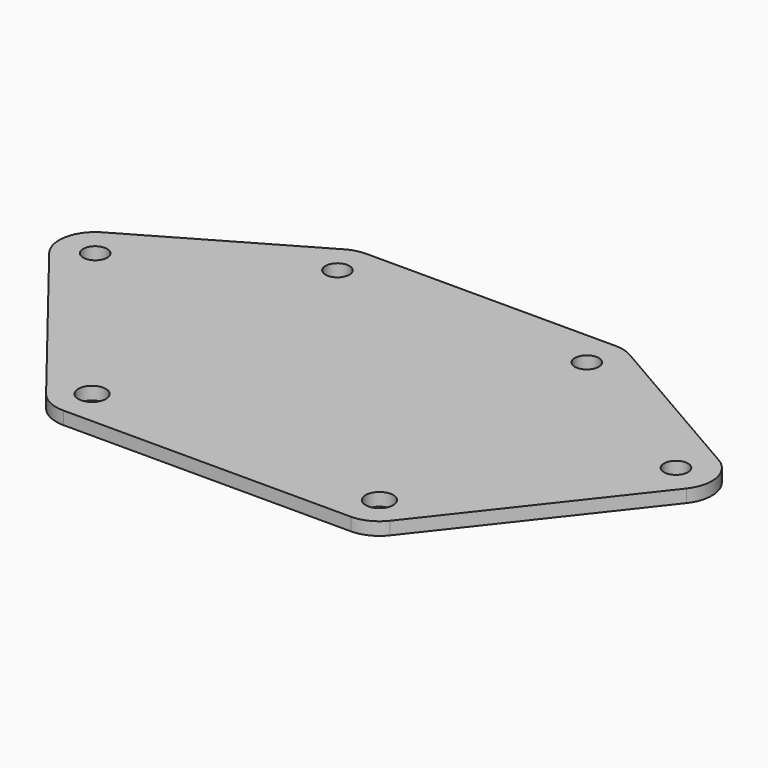
from build123d import *

# Parameters (mm, degrees)
F0_R     = 1.8288
F0_R_2   = 1.5875
F1_DEPTH = 1.70942


with BuildPart() as f1:
    # F0 (on Top) → F1 (new body)
    with BuildSketch(Plane.XY):
        with BuildLine():
            Line((16.542796, 27.770879), (-16.542796, 27.770879))
            ThreePointArc((-16.542796, 27.770879), (-17.775421, 27.608601), (-18.924046, 27.132825))
            Line((-18.924046, 27.132825), (-40.921091, 14.432825))
            ThreePointArc((-40.921091, 14.432825), (-43.215428, 11.214078), (-42.288939, 7.371431))
            Line((-42.288939, 7.371431), (-22.822177, -17.478448))
            ThreePointArc((-22.822177, -17.478448), (-21.158047, -18.823358), (-19.073079, -19.304))
            Line((-19.073079, -19.304), (19.073079, -19.304))
            ThreePointArc((19.073079, -19.304), (21.158047, -18.823358), (22.822177, -17.478448))
            Line((22.822177, -17.478448), (42.288939, 7.371431))
            ThreePointArc((42.288939, 7.371431), (43.215428, 11.214078), (40.921091, 14.432825))
            Line((40.921091, 14.432825), (18.924046, 27.132825))
            ThreePointArc((18.924046, 27.132825), (17.775421, 27.608601), (16.542796, 27.770879))
        make_face()
        with Locations((-19.073079, -14.5415)):
            Circle(F0_R, mode=Mode.SUBTRACT)
        with Locations((19.073079, -14.5415)):
            Circle(F0_R, mode=Mode.SUBTRACT)
        with Locations((-38.539841, 10.308379)):
            Circle(F0_R_2, mode=Mode.SUBTRACT)
        with Locations((-16.542796, 23.008379)):
            Circle(F0_R_2, mode=Mode.SUBTRACT)
        with Locations((38.539841, 10.308379)):
            Circle(F0_R_2, mode=Mode.SUBTRACT)
        with Locations((16.542796, 23.008379)):
            Circle(F0_R_2, mode=Mode.SUBTRACT)
    extrude(amount=F1_DEPTH)


solid = f1.part
